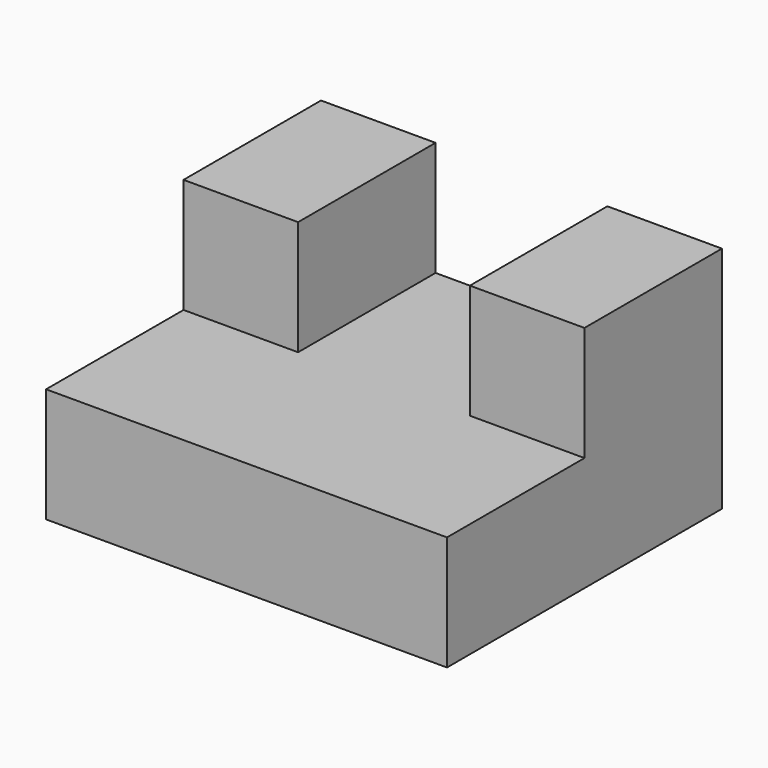
from build123d import *

# Parameters (mm, degrees)
F0_W     = 88.9
F0_H     = 50.8
F1_DEPTH = 76.2
F3_DEPTH = 25.4


with BuildPart() as f1:
    # F0 (on Front) → F1 (new body)
    with BuildSketch(Plane.XZ):
        with Locations((0.244934, -7.196585)):
            Rectangle(F0_W, F0_H)
    extrude(amount=F1_DEPTH)

    # F2 (on face) → F3 (cut)
    with BuildSketch(Plane.XY.offset(18.203415)):
        Polygon((19.294934, 0), (-18.805066, 0), (-18.805066, -38.1), (-44.205066, -38.1), (-44.205066, -76.2), (44.694934, -76.2), (44.694934, -38.1), (19.294934, -38.1), align=None)
    extrude(amount=-F3_DEPTH, mode=Mode.SUBTRACT)


solid = f1.part
